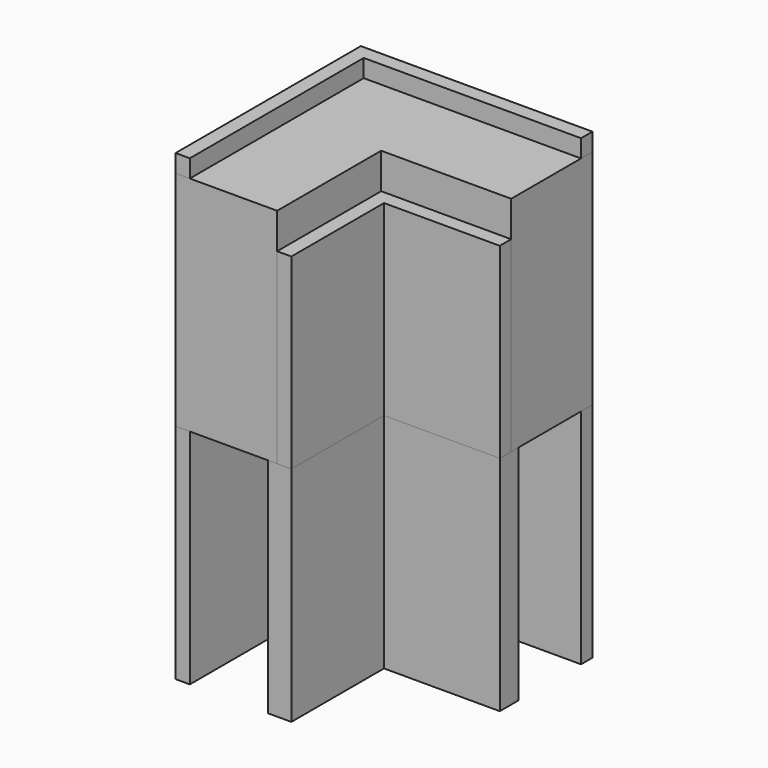
from build123d import *

# Parameters (mm, degrees)
F1_DEPTH = 25
F2_DEPTH = 21
F3_DEPTH = 27
F4_DEPTH = 25


with BuildPart() as f1:
    # F0 (on Top) → F1 (new body)
    with BuildSketch(Plane.XY):
        Polygon((-13, -13), (-11.4, -13), (-11.4, 0), (-11.4, 11.4), (0, 11.4), (13, 11.4), (13, 13), (0, 13), (-13, 13), (-13, 0), align=None)
        Polygon((-2.6, -13), (-1.6, -13), (-1.6, 1.6), (13, 1.6), (13, 2.6), (-2.6, 2.6), align=None)
        Polygon((-1.6, -13), (0, -13), (0, 0), (13, 0), (13, 1.6), (-1.6, 1.6), align=None)
    extrude(amount=-F1_DEPTH)


with BuildPart() as f2:
    # F0 (on Top) → F2 (new body)
    with BuildSketch(Plane.XY):
        Polygon((-1.6, -13), (0, -13), (0, 0), (13, 0), (13, 1.6), (-1.6, 1.6), align=None)
    extrude(amount=F2_DEPTH)


with BuildPart() as f3:
    # F0 (on Top) → F3 (new body)
    with BuildSketch(Plane.XY):
        Polygon((-13, -13), (-11.4, -13), (-11.4, 0), (-11.4, 11.4), (0, 11.4), (13, 11.4), (13, 13), (0, 13), (-13, 13), (-13, 0), align=None)
    extrude(amount=F3_DEPTH)


with BuildPart() as f4:
    # F0 (on Top) → F4 (new body)
    with BuildSketch(Plane.XY):
        Polygon((-13, -13), (-11.4, -13), (-11.4, 0), (-11.4, 11.4), (0, 11.4), (13, 11.4), (13, 13), (0, 13), (-13, 13), (-13, 0), align=None)
        Polygon((-11.4, -13), (-10.4, -13), (-10.4, 0), (-10.4, 10.4), (0, 10.4), (13, 10.4), (13, 11.4), (0, 11.4), (-11.4, 11.4), (-11.4, 0), align=None)
        Polygon((-10.4, -13), (-2.6, -13), (-2.6, 2.6), (13, 2.6), (13, 10.4), (0, 10.4), (-10.4, 10.4), (-10.4, 0), align=None)
        Polygon((-2.6, -13), (-1.6, -13), (-1.6, 1.6), (13, 1.6), (13, 2.6), (-2.6, 2.6), align=None)
    extrude(amount=F4_DEPTH)


solid = Compound([f1.part, f2.part, f3.part, f4.part])
